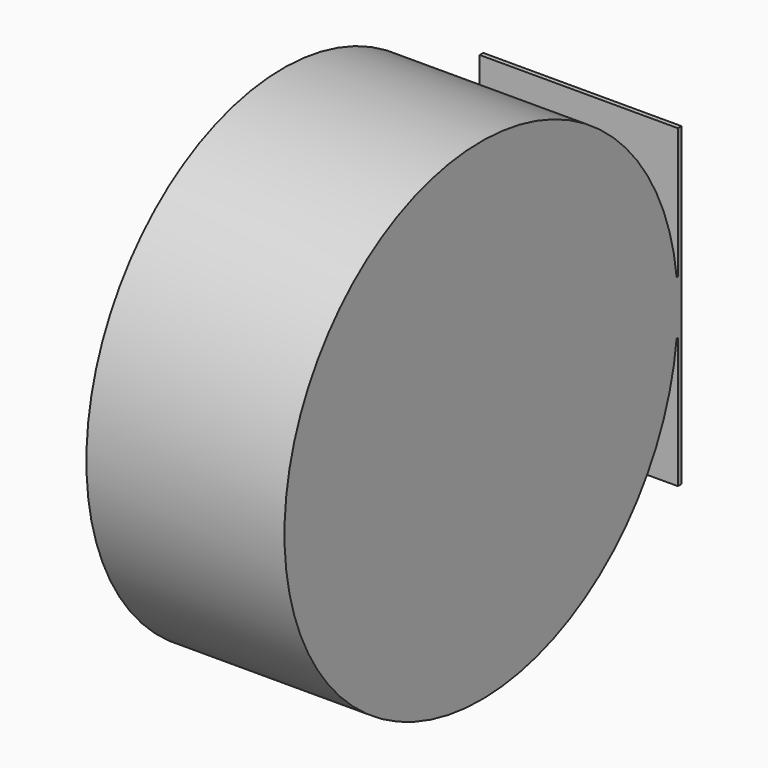
from build123d import *

# Parameters (mm, degrees)
F1_DEPTH      = 110
F1_DEPTH_BACK = 110


with BuildPart() as f1:
    # F0 (on Right) → F1 (new body, two sides)
    with BuildSketch(Plane.YZ) as f1_sk:
        with BuildLine():
            Line((0, 30), (-1.653358, 30))
            ThreePointArc((-1.653358, 30), (-546, 0), (-1.653358, -30))
            Line((-1.653358, -30), (0, -30))
            Line((0, -30), (0, -175))
            Line((0, -175), (5, -175))
            Line((5, -175), (5, 175))
            Line((5, 175), (0, 175))
            Line((0, 175), (0, 30))
        make_face()
    extrude(amount=F1_DEPTH)
    extrude(f1_sk.sketch, amount=-F1_DEPTH_BACK)


solid = f1.part
